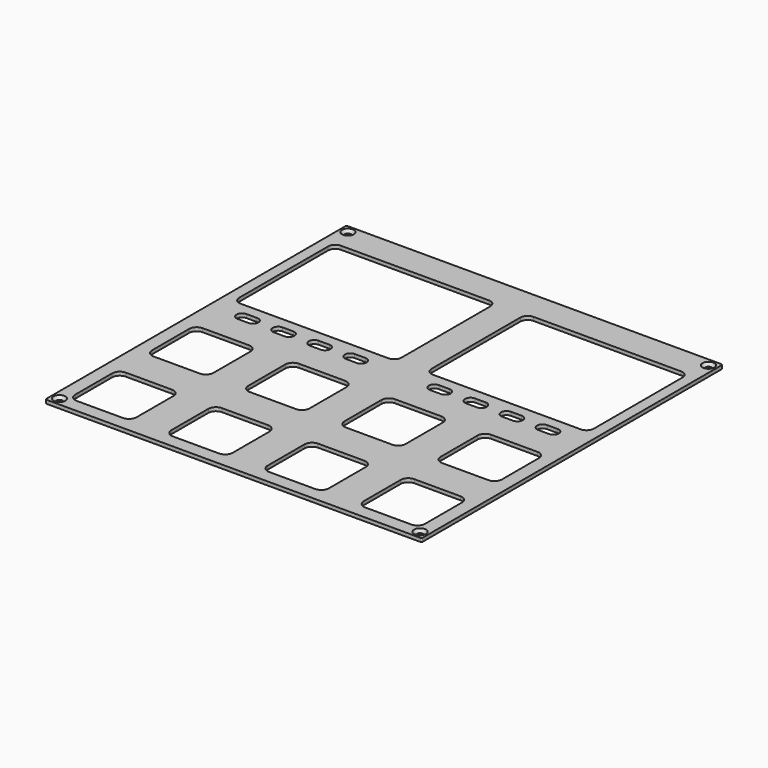
from build123d import *

# Parameters (mm, degrees)
PAD_DEPTH        = 1
POCKET_DEPTH     = 0.001
HOLE_D           = 1.75
HOLE_CSINK_D     = 3.3
HOLE_CSINK_ANGLE = 90
POCKET008_DEPTH  = 1.001
POCKET010_DEPTH  = 5
POCKET011_DEPTH  = 1.001


with BuildPart() as part:
    # Sketch → Pad (new body)
    with BuildSketch(Plane.XY):
        with BuildLine():
            Line((-51.8, 52.175), (51.8, 52.175))
            ThreePointArc((52.175, 51.8), (52.065165, 52.065165), (51.8, 52.175))
            Line((52.175, 51.8), (52.175, -51.8))
            ThreePointArc((51.8, -52.175), (52.065165, -52.065165), (52.175, -51.8))
            Line((51.8, -52.175), (-51.8, -52.175))
            ThreePointArc((-52.175, -51.8), (-52.065165, -52.065165), (-51.8, -52.175))
            Line((-52.175, -51.8), (-52.175, 51.8))
            ThreePointArc((-51.8, 52.175), (-52.065165, 52.065165), (-52.175, 51.8))
        make_face()
    extrude(amount=-PAD_DEPTH)

    # Sketch002 → Pocket (cut, through all)
    with BuildSketch(Plane.XY.offset(-4.8)):
        with BuildLine():
            Line((-45, 50.175), (45, 50.175))
            ThreePointArc((45, 50.175), (45.353553, 50.321447), (45.5, 50.675))
            ThreePointArc((45.5, 50.675), (45.353553, 51.028553), (45, 51.175))
            Line((-45, 51.175), (45, 51.175))
            ThreePointArc((-45, 51.175), (-45.353553, 51.028553), (-45.5, 50.675))
            ThreePointArc((-45.5, 50.675), (-45.353553, 50.321447), (-45, 50.175))
        make_face()
        with BuildLine():
            Line((-45, -51.175), (45, -51.175))
            ThreePointArc((45, -51.175), (45.353553, -51.028553), (45.5, -50.675))
            ThreePointArc((45.5, -50.675), (45.353553, -50.321447), (45, -50.175))
            Line((-45, -50.175), (45, -50.175))
            ThreePointArc((-45, -50.175), (-45.353553, -50.321447), (-45.5, -50.675))
            ThreePointArc((-45.5, -50.675), (-45.353553, -51.028553), (-45, -51.175))
        make_face()
        with BuildLine():
            Line((51.175, -45), (51.175, 45))
            ThreePointArc((51.175, 45), (51.028553, 45.353553), (50.675, 45.5))
            ThreePointArc((50.675, 45.5), (50.321447, 45.353553), (50.175, 45))
            Line((50.175, -45), (50.175, 45))
            ThreePointArc((50.175, -45), (50.321447, -45.353553), (50.675, -45.5))
            ThreePointArc((50.675, -45.5), (51.028553, -45.353553), (51.175, -45))
        make_face()
        with BuildLine():
            Line((-50.175, -45), (-50.175, 45))
            ThreePointArc((-50.175, 45), (-50.321447, 45.353553), (-50.675, 45.5))
            ThreePointArc((-50.675, 45.5), (-51.028553, 45.353553), (-51.175, 45))
            Line((-51.175, -45), (-51.175, 45))
            ThreePointArc((-51.175, -45), (-51.028553, -45.353553), (-50.675, -45.5))
            ThreePointArc((-50.675, -45.5), (-50.321447, -45.353553), (-50.175, -45))
        make_face()
    extrude(amount=-POCKET_DEPTH, mode=Mode.SUBTRACT)

    # Hole (through all)
    with Locations(Plane.XY):
        with Locations((-50, 50), (50, 50), (50, -50), (-50, -50)):
            CounterSinkHole(HOLE_D / 2, HOLE_CSINK_D / 2, counter_sink_angle=HOLE_CSINK_ANGLE)

    # Sketch027 → Pocket008 (cut, through all)
    with BuildSketch(Plane.XY):
        with BuildLine():
            Line((-49.17, 11.27), (-49.17, 42.07))
            ThreePointArc((-47.17, 44.07), (-48.584214, 43.484214), (-49.17, 42.07))
            Line((-47.17, 44.07), (-6.17, 44.07))
            ThreePointArc((-4.17, 42.07), (-4.755786, 43.484214), (-6.17, 44.07))
            Line((-4.17, 42.07), (-4.17, 11.27))
            ThreePointArc((-6.17, 9.27), (-4.755786, 9.855786), (-4.17, 11.27))
            Line((-6.17, 9.27), (-47.17, 9.27))
            ThreePointArc((-49.17, 11.27), (-48.584214, 9.855786), (-47.17, 9.27))
        make_face()
        with BuildLine():
            Line((4.17, 11.27), (4.17, 42.07))
            ThreePointArc((6.17, 44.07), (4.755786, 43.484214), (4.17, 42.07))
            Line((6.17, 44.07), (47.17, 44.07))
            ThreePointArc((49.17, 42.07), (48.584214, 43.484214), (47.17, 44.07))
            Line((49.17, 42.07), (49.17, 11.27))
            ThreePointArc((47.17, 9.27), (48.584214, 9.855786), (49.17, 11.27))
            Line((47.17, 9.27), (6.17, 9.27))
            ThreePointArc((4.17, 11.27), (4.755786, 9.855786), (6.17, 9.27))
        make_face()
    extrude(amount=-POCKET008_DEPTH, mode=Mode.SUBTRACT)

    # Sketch029 → Pocket010 (cut)
    with BuildSketch(Plane.XY):
        with BuildLine():
            ThreePointArc((-30.17, 3.27), (-28.67, 4.77), (-30.17, 6.27))
            Line((-30.17, 6.27), (-33.17, 6.27))
            ThreePointArc((-33.17, 6.27), (-34.67, 4.77), (-33.17, 3.27))
            Line((-33.17, 3.27), (-30.17, 3.27))
        make_face()
        with BuildLine():
            ThreePointArc((-23.17, 6.27), (-24.67, 4.77), (-23.17, 3.27))
            Line((-23.17, 3.27), (-20.17, 3.27))
            ThreePointArc((-20.17, 3.27), (-18.67, 4.77), (-20.17, 6.27))
            Line((-20.17, 6.27), (-23.17, 6.27))
        make_face()
        with BuildLine():
            ThreePointArc((-13.17, 6.27), (-14.67, 4.77), (-13.17, 3.27))
            Line((-13.17, 3.27), (-10.17, 3.27))
            ThreePointArc((-10.17, 3.27), (-8.67, 4.77), (-10.17, 6.27))
            Line((-10.17, 6.27), (-13.17, 6.27))
        make_face()
        with BuildLine():
            ThreePointArc((-40.17, 3.27), (-38.67, 4.77), (-40.17, 6.27))
            Line((-40.17, 6.27), (-43.17, 6.27))
            ThreePointArc((-43.17, 6.27), (-44.67, 4.77), (-43.17, 3.27))
            Line((-43.17, 3.27), (-40.17, 3.27))
        make_face()
        with BuildLine():
            ThreePointArc((10.17, 6.27), (8.67, 4.77), (10.17, 3.27))
            Line((10.17, 3.27), (13.17, 3.27))
            ThreePointArc((13.17, 3.27), (14.67, 4.77), (13.17, 6.27))
            Line((13.17, 6.27), (10.17, 6.27))
        make_face()
        with BuildLine():
            ThreePointArc((20.17, 6.27), (18.67, 4.77), (20.17, 3.27))
            Line((20.17, 3.27), (23.17, 3.27))
            ThreePointArc((23.17, 3.27), (24.67, 4.77), (23.17, 6.27))
            Line((23.17, 6.27), (20.17, 6.27))
        make_face()
        with BuildLine():
            ThreePointArc((30.17, 6.27), (28.67, 4.77), (30.17, 3.27))
            Line((30.17, 3.27), (33.17, 3.27))
            ThreePointArc((33.17, 3.27), (34.67, 4.77), (33.17, 6.27))
            Line((33.17, 6.27), (30.17, 6.27))
        make_face()
        with BuildLine():
            ThreePointArc((43.17, 3.27), (44.67, 4.77), (43.17, 6.27))
            Line((43.17, 6.27), (40.17, 6.27))
            ThreePointArc((40.17, 6.27), (38.67, 4.77), (40.17, 3.27))
            Line((40.17, 3.27), (43.17, 3.27))
        make_face()
    extrude(amount=-POCKET010_DEPTH, mode=Mode.SUBTRACT)

    # Sketch030 → Pocket011 (cut, through all)
    with BuildSketch(Plane.XY):
        with BuildLine():
            Line((-48.505, -19.735), (-48.505, -6.935))
            ThreePointArc((-46.405, -4.835), (-47.889924, -5.450076), (-48.505, -6.935))
            Line((-46.405, -4.835), (-33.605, -4.835))
            ThreePointArc((-31.505, -6.935), (-32.120076, -5.450076), (-33.605, -4.835))
            Line((-31.505, -6.935), (-31.505, -19.735))
            ThreePointArc((-33.605, -21.835), (-32.120076, -21.219924), (-31.505, -19.735))
            Line((-33.605, -21.835), (-46.405, -21.835))
            ThreePointArc((-48.505, -19.735), (-47.889924, -21.219924), (-46.405, -21.835))
        make_face()
        with BuildLine():
            Line((-21.835, -19.735), (-21.835, -6.935))
            ThreePointArc((-19.735, -4.835), (-21.219924, -5.450076), (-21.835, -6.935))
            Line((-19.735, -4.835), (-6.935, -4.835))
            ThreePointArc((-4.835, -6.935), (-5.450076, -5.450076), (-6.935, -4.835))
            Line((-4.835, -6.935), (-4.835, -19.735))
            ThreePointArc((-6.935, -21.835), (-5.450076, -21.219924), (-4.835, -19.735))
            Line((-6.935, -21.835), (-19.735, -21.835))
            ThreePointArc((-21.835, -19.735), (-21.219924, -21.219924), (-19.735, -21.835))
        make_face()
        with BuildLine():
            Line((4.835, -19.735), (4.835, -6.935))
            ThreePointArc((6.935, -4.835), (5.450076, -5.450076), (4.835, -6.935))
            Line((6.935, -4.835), (19.735, -4.835))
            ThreePointArc((21.835, -6.935), (21.219924, -5.450076), (19.735, -4.835))
            Line((21.835, -6.935), (21.835, -19.735))
            ThreePointArc((19.735, -21.835), (21.219924, -21.219924), (21.835, -19.735))
            Line((19.735, -21.835), (6.935, -21.835))
            ThreePointArc((4.835, -19.735), (5.450076, -21.219924), (6.935, -21.835))
        make_face()
        with BuildLine():
            Line((31.505, -19.735), (31.505, -6.935))
            ThreePointArc((33.605, -4.835), (32.120076, -5.450076), (31.505, -6.935))
            Line((33.605, -4.835), (46.405, -4.835))
            ThreePointArc((48.505, -6.935), (47.889924, -5.450076), (46.405, -4.835))
            Line((48.505, -6.935), (48.505, -19.735))
            ThreePointArc((46.405, -21.835), (47.889924, -21.219924), (48.505, -19.735))
            Line((46.405, -21.835), (33.605, -21.835))
            ThreePointArc((31.505, -19.735), (32.120076, -21.219924), (33.605, -21.835))
        make_face()
        with BuildLine():
            Line((31.505, -46.405), (31.505, -33.605))
            ThreePointArc((33.605, -31.505), (32.120076, -32.120076), (31.505, -33.605))
            Line((33.605, -31.505), (46.405, -31.505))
            ThreePointArc((48.505, -33.605), (47.889924, -32.120076), (46.405, -31.505))
            Line((48.505, -33.605), (48.505, -46.405))
            ThreePointArc((46.405, -48.505), (47.889924, -47.889924), (48.505, -46.405))
            Line((46.405, -48.505), (33.605, -48.505))
            ThreePointArc((31.505, -46.405), (32.120076, -47.889924), (33.605, -48.505))
        make_face()
        with BuildLine():
            Line((4.835, -46.405), (4.835, -33.605))
            ThreePointArc((6.935, -31.505), (5.450076, -32.120076), (4.835, -33.605))
            Line((6.935, -31.505), (19.735, -31.505))
            ThreePointArc((21.835, -33.605), (21.219924, -32.120076), (19.735, -31.505))
            Line((21.835, -33.605), (21.835, -46.405))
            ThreePointArc((19.735, -48.505), (21.219924, -47.889924), (21.835, -46.405))
            Line((19.735, -48.505), (6.935, -48.505))
            ThreePointArc((4.835, -46.405), (5.450076, -47.889924), (6.935, -48.505))
        make_face()
        with BuildLine():
            Line((-21.835, -46.405), (-21.835, -33.605))
            ThreePointArc((-19.735, -31.505), (-21.219924, -32.120076), (-21.835, -33.605))
            Line((-19.735, -31.505), (-6.935, -31.505))
            ThreePointArc((-4.835, -33.605), (-5.450076, -32.120076), (-6.935, -31.505))
            Line((-4.835, -33.605), (-4.835, -46.405))
            ThreePointArc((-6.935, -48.505), (-5.450076, -47.889924), (-4.835, -46.405))
            Line((-6.935, -48.505), (-19.735, -48.505))
            ThreePointArc((-21.835, -46.405), (-21.219924, -47.889924), (-19.735, -48.505))
        make_face()
        with BuildLine():
            Line((-48.505, -46.405), (-48.505, -33.605))
            ThreePointArc((-46.405, -31.505), (-47.889924, -32.120076), (-48.505, -33.605))
            Line((-46.405, -31.505), (-33.605, -31.505))
            ThreePointArc((-31.505, -33.605), (-32.120076, -32.120076), (-33.605, -31.505))
            Line((-31.505, -33.605), (-31.505, -46.405))
            ThreePointArc((-33.605, -48.505), (-32.120076, -47.889924), (-31.505, -46.405))
            Line((-33.605, -48.505), (-46.405, -48.505))
            ThreePointArc((-48.505, -46.405), (-47.889924, -47.889924), (-46.405, -48.505))
        make_face()
    extrude(amount=-POCKET011_DEPTH, mode=Mode.SUBTRACT)


solid = part.part
